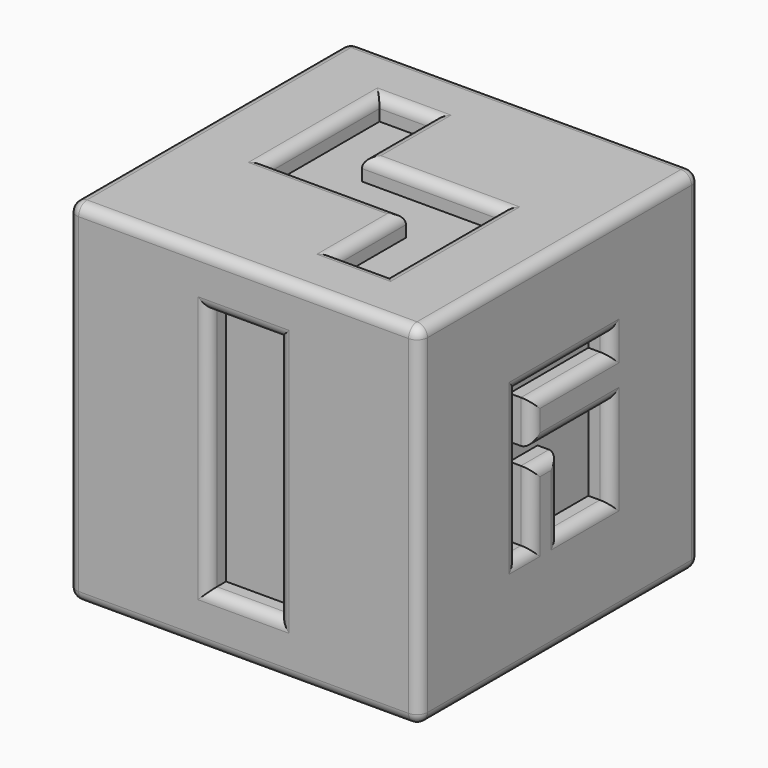
from build123d import *

# Parameters (mm, degrees)
F0_W      = 25.4
F0_H      = 25.4
F1_DEPTH  = 25.4
F8_DEPTH  = 1.5875
F2_W      = 5.08
F2_H      = 17.78
F9_DEPTH  = 1.5875
F10_DEPTH = 1.5875
F11_DEPTH = 1.5875
F12_DEPTH = 1.5875
F13_DEPTH = 1.5875
F14_R     = 0.762


with BuildPart() as f1:
    # F0 (on Top) → F1 (new body)
    with BuildSketch(Plane.XY):
        Rectangle(F0_W, F0_H)
    extrude(amount=F1_DEPTH)

    # F7 (on face) → F8 (cut)
    with BuildSketch(Plane(origin=(-12.7, 0, 0), x_dir=(0, -1, 0), z_dir=(-1, 0, 0))):
        Polygon((-4.9953212532, 7.685226252), (-1.1170259365, 7.685226252), (-1.1170259365, 12.5987064093), (1.0614689121, 12.5987064093), (1.0614689121, 7.7727064093), (5.1815596911, 7.7727064093), (5.1815596911, 17.5121865667), (1.0614689121, 17.5121865667), (-1.1170259365, 17.5121865667), (-4.9953212532, 17.5121865667), align=None)
    extrude(amount=-F8_DEPTH, mode=Mode.SUBTRACT)

    # F2 (on face) → F9 (cut)
    with BuildSketch(Plane.XZ.offset(12.7)):
        with Locations((0, 12.7)):
            Rectangle(F2_W, F2_H)
    extrude(amount=-F9_DEPTH, mode=Mode.SUBTRACT)

    # F6 (on face) → F10 (cut)
    with BuildSketch(Plane.YZ.offset(12.7)):
        Polygon((0, 7.3222619789), (4.6011506993, 7.3222619789), (4.6011506993, 12.4022619789), (4.6011506993, 13.6722619789), (-2.54, 13.6722619789), (-2.54, 16.7535761464), (4.6011506993, 16.7535761464), (4.6011506993, 18.0235761464), (-2.54, 18.0235761464), (-3.81, 18.0235761464), (-3.81, 7.3222619789), (-2.54, 7.3222619789), (-2.54, 12.4022619789), (0, 12.4022619789), align=None)
    extrude(amount=-F10_DEPTH, mode=Mode.SUBTRACT)

    # F4 (on face) → F11 (cut)
    with BuildSketch(Plane(origin=(0, 12.7, 0), x_dir=(-1, 0, 0), z_dir=(0, 1, 0))):
        Polygon((6.35, 7.737770211), (6.35, 12.7), (-3.81, 12.7), (-3.81, 21.59), (-6.35, 21.59), (-6.35, 12.7), (-6.35, 7.737770211), align=None)
    extrude(amount=-F11_DEPTH, mode=Mode.SUBTRACT)

    # F3 (on face) → F12 (cut)
    with BuildSketch(Plane.XY.offset(25.4)):
        Polygon((-6.9272688269, 1.905), (-6.9272688269, -1.905), (3.1172688269, -1.905), (3.1172688269, -8.255), (6.9272688269, -8.255), (6.9272688269, -1.905), (6.9272688269, 1.905), (-3.1172688269, 1.905), (-3.1172688269, 8.255), (-6.9272688269, 8.255), align=None)
    extrude(amount=-F12_DEPTH, mode=Mode.SUBTRACT)

    # F5 (on face) → F13 (cut)
    with BuildSketch(Plane(origin=(0, 0, 0), x_dir=(1, 0, 0), z_dir=(0, 0, -1))):
        Polygon((-4.6181826849, 6.1575769132), (-4.6181826849, 1.0775769132), (4.6181826849, 1.0775769132), (4.6181826849, -1.0775769132), (-4.6181826849, -1.0775769132), (-4.6181826849, -6.1575769132), (4.6181826849, -6.1575769132), (7.8201234426, -6.1575769132), (7.8201234426, 6.1575769132), (4.6181826849, 6.1575769132), align=None)
    extrude(amount=-F13_DEPTH, mode=Mode.SUBTRACT)

    # F14
    f14_edges = [f1.edges().sort_by_distance(p)[0] for p in [
        (0, -12.7, 25.4),
        (-12.7, 0, 25.4),
        (12.7, 0, 25.4),
        (0, 12.7, 25.4),
        (-1.905, -1.905, 25.4),
        (3.117269, -5.08, 25.4),
        (5.022269, -8.255, 25.4),
        (6.927269, -3.175, 25.4),
        (1.905, 1.905, 25.4),
        (-3.117269, 5.08, 25.4),
        (-5.022269, 8.255, 25.4),
        (-6.927269, 3.175, 25.4),
        (-12.7, -12.7, 12.7),
        (0, -12.7, 0),
        (12.7, -12.7, 12.7),
        (-2.54, -12.7, 12.7),
        (0, -12.7, 21.59),
        (2.54, -12.7, 12.7),
        (0, -12.7, 3.81),
        (12.7, 0, 0),
        (12.7, 12.7, 12.7),
        (12.7, 0, 9.862262),
        (12.7, -1.27, 12.402262),
        (12.7, -2.54, 9.862262),
        (12.7, -3.175, 7.322262),
        (12.7, -3.81, 12.672919),
        (12.7, 0.395575, 18.023576),
        (12.7, 4.601151, 17.388576),
        (12.7, 1.030575, 16.753576),
        (12.7, -2.54, 15.212919),
        (12.7, 1.030575, 13.672262),
        (12.7, 4.601151, 10.497262),
        (12.7, 2.300575, 7.322262),
        (0, 12.7, 0),
        (-12.7, 12.7, 12.7),
        (0, 12.7, 7.73777),
        (6.35, 12.7, 14.663885),
        (5.08, 12.7, 21.59),
        (3.81, 12.7, 17.145),
        (-1.27, 12.7, 12.7),
        (-6.35, 12.7, 10.218885),
        (-12.7, 0, 0),
        (-12.7, -0.093119, 17.512187),
        (-12.7, -5.18156, 12.642446),
        (-12.7, -3.121514, 7.772706),
        (-12.7, -1.061469, 10.185706),
        (-12.7, 0.027779, 12.598706),
        (-12.7, 1.117026, 10.141966),
        (-12.7, 3.056174, 7.685226),
        (-12.7, 4.995321, 12.598706),
        (1.60097, 6.157577, 0),
        (-4.618183, 3.617577, 0),
        (0, 1.077577, 0),
        (4.618183, 0, 0),
        (0, -1.077577, 0),
        (-4.618183, -3.617577, 0),
        (1.60097, -6.157577, 0),
        (7.820123, 0, 0),
    ]]
    fillet(f14_edges, radius=F14_R)


solid = f1.part
